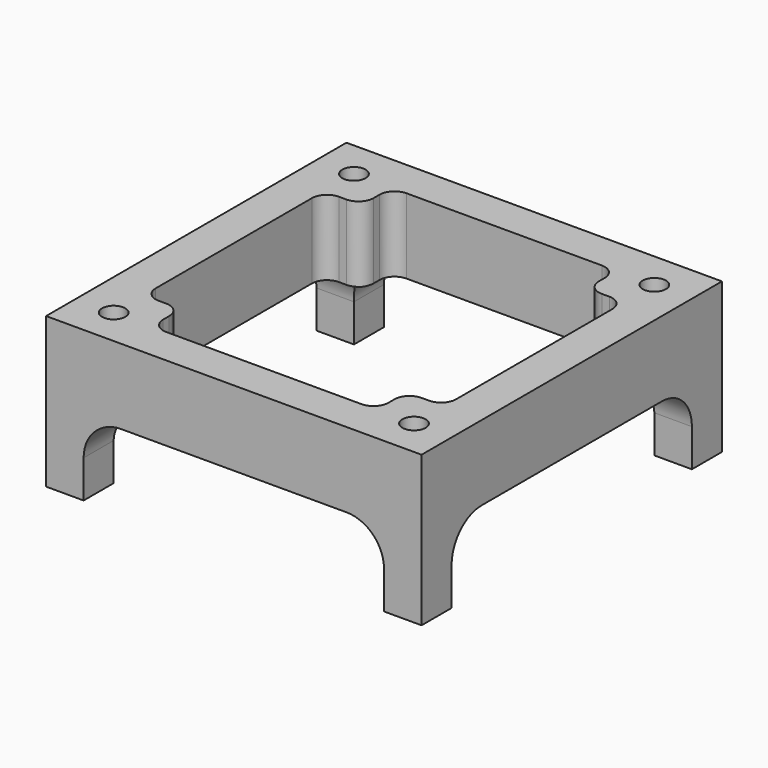
from build123d import *

# Parameters (mm, degrees)
SKETCH140_W             = 50
SKETCH140_H             = 50
PAD024_DEPTH            = 20
POCKET117_DEPTH         = 20.001
POCKET118_DEPTH         = 50.001
POCKET119_DEPTH         = 50.001
SKETCH144_R             = 1.55
POCKET120_DEPTH         = 5
SKETCH145_R             = 1.55
POCKET121_DEPTH         = 3
BODY025_PLACEMENT_ANGLE = 90


with BuildPart() as part:
    # Sketch140 → Pad024 (new body)
    with BuildSketch(Plane.XY):
        Rectangle(SKETCH140_W, SKETCH140_H)
    extrude(amount=PAD024_DEPTH)

    # Sketch141 (on Face6 of Pad024) → Pocket117 (cut, through all)
    with BuildSketch(Plane.XY.offset(20)):
        with BuildLine():
            Line((-18, 15), (-17, 15))
            ThreePointArc((-17, 15), (-15.585786, 15.585786), (-15, 17))
            Line((-15, 17), (-15, 18))
            ThreePointArc((-13, 20), (-14.414214, 19.414214), (-15, 18))
            Line((-13, 20), (13, 20))
            ThreePointArc((15, 18), (14.414214, 19.414214), (13, 20))
            Line((15, 18), (15, 17))
            ThreePointArc((15, 17), (15.585786, 15.585786), (17, 15))
            Line((17, 15), (18, 15))
            ThreePointArc((20, 13), (19.414214, 14.414214), (18, 15))
            Line((20, 13), (20, -13))
            ThreePointArc((18, -15), (19.414214, -14.414214), (20, -13))
            Line((18, -15), (17, -15))
            ThreePointArc((17, -15), (15.585786, -15.585786), (15, -17))
            Line((15, -17), (15, -18))
            ThreePointArc((13, -20), (14.414214, -19.414214), (15, -18))
            Line((13, -20), (-13, -20))
            ThreePointArc((-15, -18), (-14.414214, -19.414214), (-13, -20))
            Line((-15, -18), (-15, -17))
            ThreePointArc((-15, -17), (-15.585786, -15.585786), (-17, -15))
            Line((-17, -15), (-18, -15))
            ThreePointArc((-20, -13), (-19.414214, -14.414214), (-18, -15))
            Line((-20, -13), (-20, 13))
            ThreePointArc((-18, 15), (-19.414214, 14.414214), (-20, 13))
        make_face()
    extrude(amount=-POCKET117_DEPTH, mode=Mode.SUBTRACT)

    # Sketch142 (on Face3 of Pocket117) → Pocket118 (cut, through all)
    with BuildSketch(Plane.YZ.offset(25)):
        with BuildLine():
            Line((-15, 10), (15, 10))
            ThreePointArc((20, 5), (18.535534, 8.535534), (15, 10))
            Line((20, 5), (20, 0))
            Line((20, 0), (-20, 0))
            Line((-20, 0), (-20, 5))
            ThreePointArc((-15, 10), (-18.535534, 8.535534), (-20, 5))
        make_face()
    extrude(amount=-POCKET118_DEPTH, mode=Mode.SUBTRACT)

    # Sketch143 (on Face6 of Pocket117) → Pocket119 (cut, through all)
    with BuildSketch(Plane.XZ.offset(25)):
        with BuildLine():
            Line((-15, 10), (15, 10))
            ThreePointArc((20, 5), (18.535534, 8.535534), (15, 10))
            Line((20, 5), (20, 0))
            Line((20, 0), (-20, 0))
            Line((-20, 0), (-20, 5))
            ThreePointArc((-15, 10), (-18.535534, 8.535534), (-20, 5))
        make_face()
    extrude(amount=-POCKET119_DEPTH, mode=Mode.SUBTRACT)

    # Sketch144 → Pocket120 (cut)
    with BuildSketch(Plane.XY.offset(20)):
        with Locations((-20, 20)):
            Circle(SKETCH144_R)
        with Locations((20, 20)):
            Circle(SKETCH144_R)
        with Locations((20, -20)):
            Circle(SKETCH144_R)
        with Locations((-20, -20)):
            Circle(SKETCH144_R)
    extrude(amount=-POCKET120_DEPTH, mode=Mode.SUBTRACT)

    # Sketch145 (on Face27 of Pocket120) → Pocket121 (cut)
    with BuildSketch(Plane.XZ.offset(25)):
        with Locations((-20, 14)):
            Circle(SKETCH145_R)
        with Locations((20, 14)):
            Circle(SKETCH145_R)
    extrude(amount=-POCKET121_DEPTH, mode=Mode.SUBTRACT)


with BuildPart() as part_1:
    # Body025 placement: moved
    add(part.part.moved(Location((25, 85, 0))).rotate(Axis((25, 85, 0), (0, 0, -1)), BODY025_PLACEMENT_ANGLE))


solid = part_1.part
